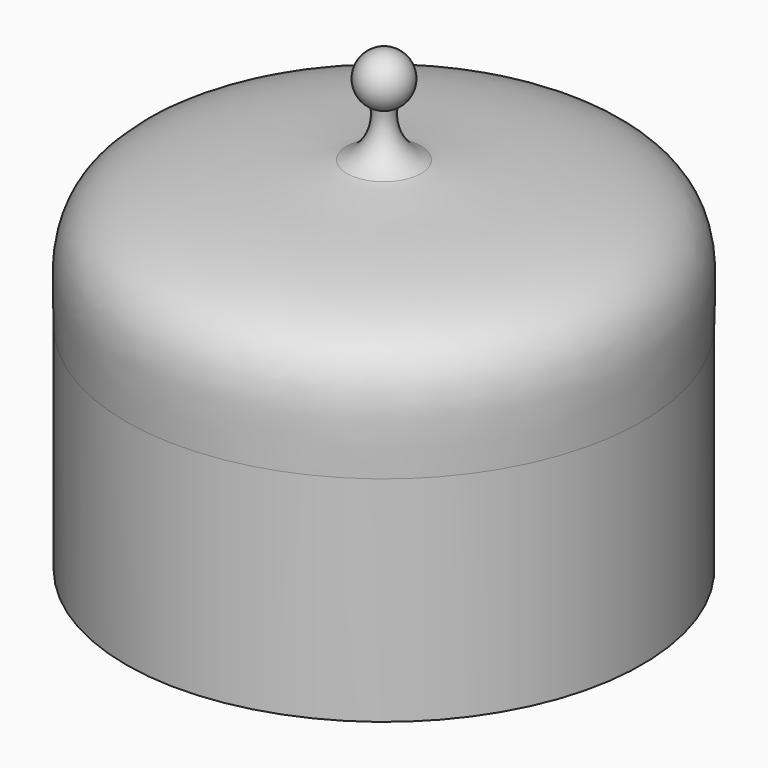
from build123d import *


with BuildPart() as f1:
    # F0 (on Front) → F1 (revolve)
    with BuildSketch(Plane.XZ):
        with BuildLine():
            Line((-128.905, 106.8930508455), (-128.905, 0))
            Line((-128.905, 0), (-125.73, 0))
            Line((-125.73, 0), (-125.73, 126.5592618573))
            add(Edge.make_bspline(
                [(-125.73, 126.5592618573), (-125.73, 137.5592263703), (-117.3675938619, 175.8535419895), (-43.2346528038, 170.1313743134), (0, 173.2708198017)],
                knots=[0, 0, 0, 0, 0.3622196404, 1, 1, 1, 1], degree=3))
            Line((0, 173.2708198017), (0, 228.6))
            ThreePointArc((0, 228.6), (-12.3851340936, 218.7104187382), (-5.4814823514, 204.4438509423))
            ThreePointArc((-5.4814823514, 204.4438509423), (-7.6929026142, 189.9906849013), (-18.546248265, 180.1932731832))
            add(Edge.make_bspline(
                [(-128.905, 106.8930508455), (-128.905, 126.4129957464), (-138.9272535609, 179.3268166787), (-32.7060964034, 175.5422530476), (-18.546248265, 180.1932731832)],
                knots=[0, 0, 0, 0, 0.4286406106, 1, 1, 1, 1], degree=3))
        make_face()
    revolve(axis=Axis((0, 0, 114.3), (0, 0, 1)))


solid = f1.part
